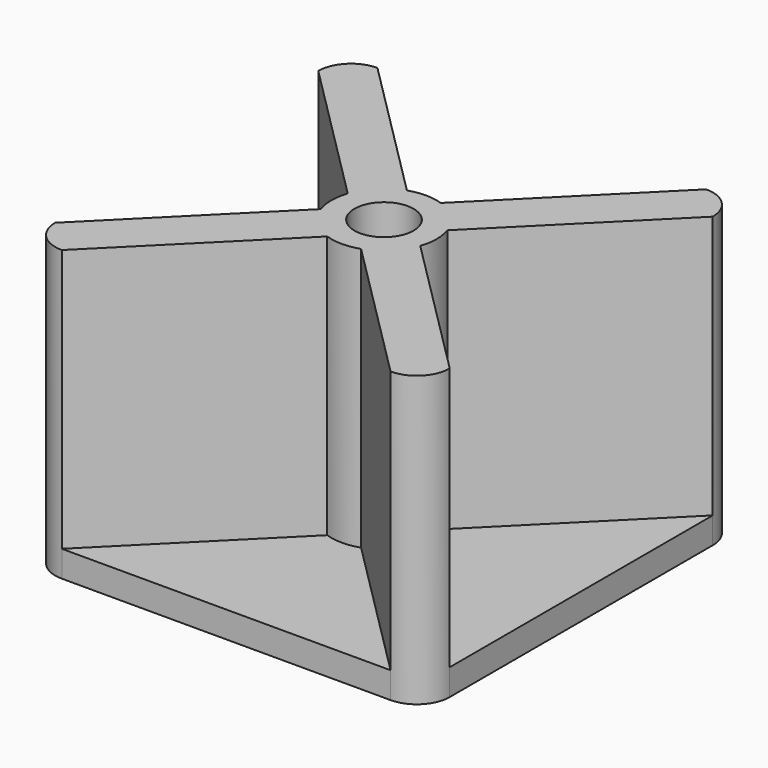
from build123d import *

# Parameters (mm, degrees)
F1_DEPTH = 4
F2_R     = 4.5
F3_DEPTH = 40
F4_DEPTH = 25


with BuildPart() as f1:
    # F0 (on Top) → F1 (new body)
    with BuildSketch(Plane.XY):
        with BuildLine():
            Line((-25, -30), (25, -30))
            ThreePointArc((25, -30), (28.535534, -28.535534), (30, -25))
            Line((30, -25), (30, 25))
            ThreePointArc((30, 25), (28.535534, 28.535534), (25, 30))
            Line((25, 30), (-25, 30))
            ThreePointArc((-25, 30), (-28.535534, 28.535534), (-30, 25))
            Line((-30, 25), (-30, -25))
            ThreePointArc((-30, -25), (-28.535534, -28.535534), (-25, -30))
        make_face()
    extrude(amount=F1_DEPTH)

    # F2 (on face) → F3 (join)
    with BuildSketch(Plane.XY.offset(4)):
        with BuildLine():
            Line((-30, 25), (-7.574446, 2.574446))
            ThreePointArc((-7.574446, 2.574446), (-8, 0), (-7.574446, -2.574446))
            Line((-7.574446, -2.574446), (-30, -25))
            ThreePointArc((-30, -25), (-28.535534, -28.535534), (-25, -30))
            Line((-25, -30), (-2.574446, -7.574446))
            ThreePointArc((-2.574446, -7.574446), (0, -8), (2.574446, -7.574446))
            Line((2.574446, -7.574446), (25, -30))
            ThreePointArc((25, -30), (28.535534, -28.535534), (30, -25))
            Line((30, -25), (7.574446, -2.574446))
            ThreePointArc((7.574446, -2.574446), (8, 0), (7.574446, 2.574446))
            Line((7.574446, 2.574446), (30, 25))
            ThreePointArc((30, 25), (28.535534, 28.535534), (25, 30))
            Line((25, 30), (2.574446, 7.574446))
            ThreePointArc((2.574446, 7.574446), (0, 8), (-2.574446, 7.574446))
            Line((-2.574446, 7.574446), (-25, 30))
            ThreePointArc((-25, 30), (-28.535534, 28.535534), (-30, 25))
        make_face()
        Circle(F2_R, mode=Mode.SUBTRACT)
    extrude(amount=F3_DEPTH)

    # F2 (on face) → F4 (cut)
    with BuildSketch(Plane.XY.offset(4)):
        Circle(F2_R)
    extrude(amount=-F4_DEPTH, mode=Mode.SUBTRACT)


solid = f1.part
